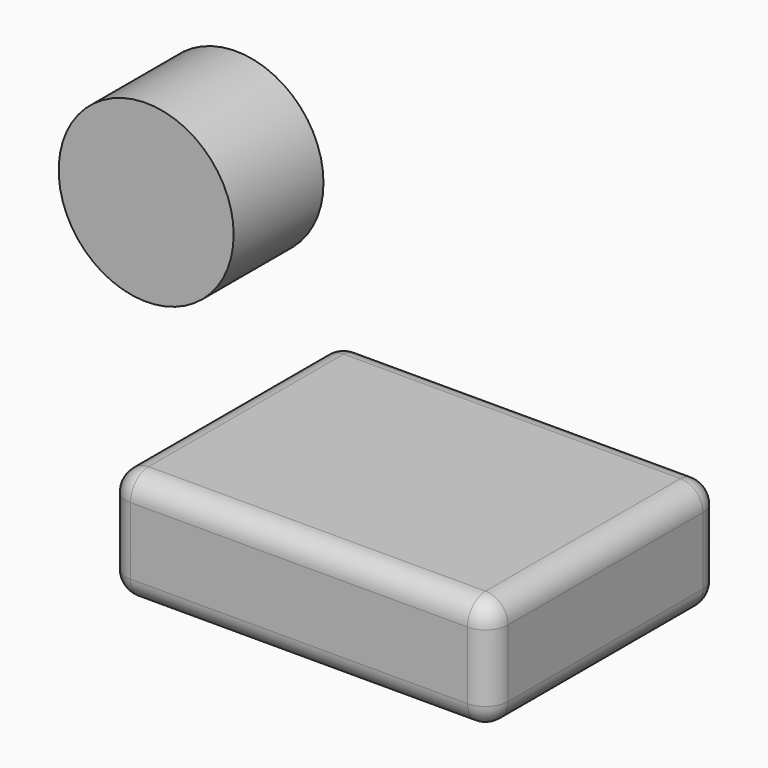
from build123d import *

# Parameters (mm, degrees)
F0_W     = 86.378537
F0_H     = 65.276827
F1_DEPTH = 25.4
F2_R     = 5.08
F3_R     = 19.790864
F4_DEPTH = 25.4


with BuildPart() as f1:
    # F0 (on Top) → F1 (new body)
    with BuildSketch(Plane.XY):
        with Locations((-1.111719, 3.635055)):
            Rectangle(F0_W, F0_H)
        with Locations((-1.111719, 3.635055)):
            Rectangle(F0_W, F0_H)
    extrude(amount=F1_DEPTH)

    # F2
    f2_edges = [f1.edges().sort_by_distance(p)[0] for p in [
        (-44.300988, -29.003359, 12.7),
        (42.077549, -29.003359, 12.7),
        (-1.11172, -29.003359, 0),
        (-1.11172, -29.003359, 25.4),
        (42.077549, 36.273468, 12.7),
        (42.077549, 3.635054, 0),
        (42.077549, 3.635054, 25.4),
        (-44.300988, 36.273468, 12.7),
        (-44.300988, 3.635054, 0),
        (-44.300988, 3.635054, 25.4),
        (-1.11172, 36.273468, 0),
        (-1.11172, 36.273468, 25.4),
    ]]
    fillet(f2_edges, radius=F2_R)


with BuildPart() as f4:
    # F3 (on Front) → F4 (new body)
    with BuildSketch(Plane.XZ):
        with Locations((-58.899298, 61.912473)):
            Circle(F3_R)
    extrude(amount=-F4_DEPTH)


solid = Compound([f1.part, f4.part])
